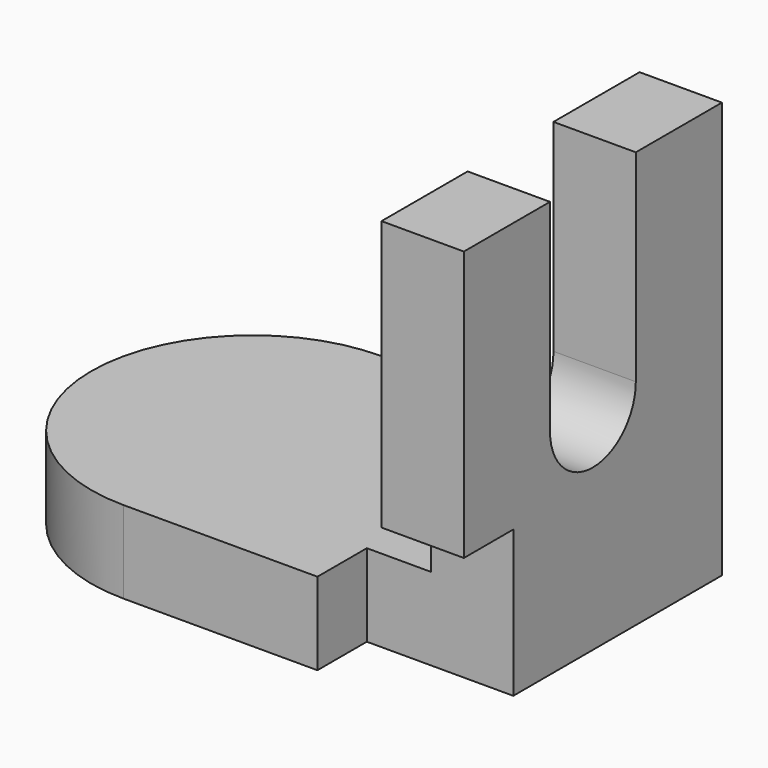
from build123d import *

# Parameters (mm, degrees)
F1_DEPTH = 20.32
F3_DEPTH = 20.32
F4_W     = 36.134478
F4_H     = 36.134478
F5_DEPTH = 15.24


with BuildPart() as f1:
    # F0 (on Right) → F1 (new body)
    with BuildSketch(Plane.YZ):
        with BuildLine():
            Line((0, 102.700152), (0, 0))
            Line((0, 0), (79.587111, 0))
            Line((79.587111, 0), (79.587111, 102.700152))
            Line((79.587111, 102.700152), (53.027965, 102.700152))
            Line((53.027965, 102.700152), (53.027965, 52.854609))
            ThreePointArc((53.027965, 52.854609), (39.793556, 39.620199), (26.559146, 52.854609))
            Line((26.559146, 52.854609), (26.559146, 102.700152))
            Line((26.559146, 102.700152), (0, 102.700152))
        make_face()
    extrude(amount=-F1_DEPTH)

    # F2 (on Top) → F3 (join)
    with BuildSketch(Plane.XY):
        with BuildLine():
            Line((-83.956517, 0), (0, 0))
            Line((0, 0), (0, 79.587111))
            Line((0, 79.587111), (-83.956517, 79.587111))
            ThreePointArc((-83.956517, 79.587111), (-123.750073, 39.793556), (-83.956517, 0))
        make_face()
    extrude(amount=F3_DEPTH)

    # F4 (on Front) → F5 (cut)
    with BuildSketch(Plane.XZ):
        with Locations((-18.067239, 18.067239)):
            Rectangle(F4_W, F4_H)
    extrude(amount=-F5_DEPTH, mode=Mode.SUBTRACT)


solid = f1.part
